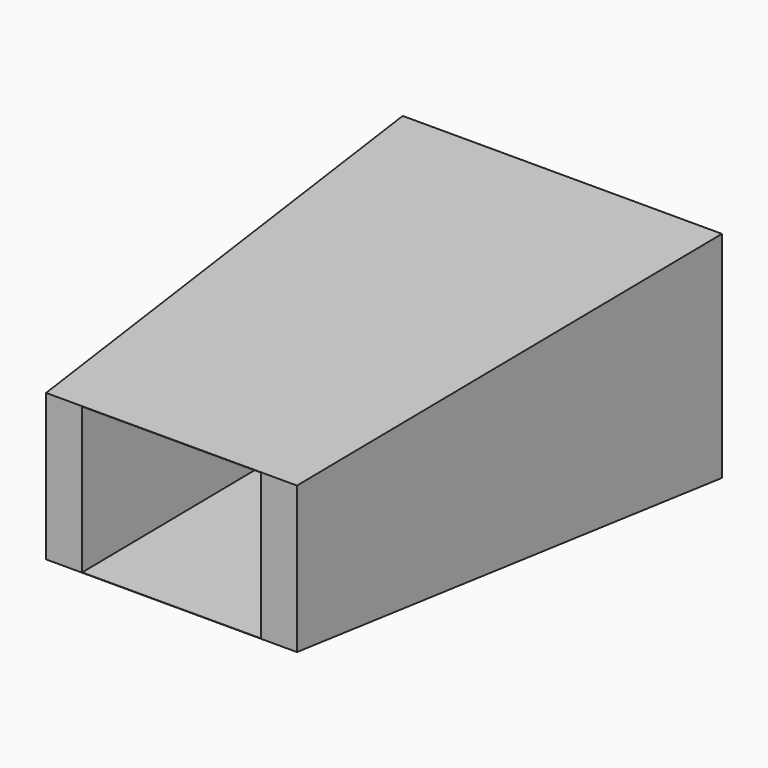
from build123d import *

# Parameters (mm, degrees)
F2_DEPTH = 400
F2_TAPER = 4


with BuildPart() as f2:
    # F0 (on Front) → F2 (new body)
    with BuildSketch(Plane.XZ):
        Polygon((-130.7, 88), (-45.2, 31.8), (45.2, 31.8), (130.7, 88), align=None)
        Polygon((130.7, 88), (45.2, 31.8), (45.2, -31.8), (130.7, -88), align=None)
        Polygon((45.2, -31.8), (-45.2, -31.8), (-130.7, -88), (130.7, -88), align=None)
        Polygon((-45.2, -31.8), (-45.2, 31.8), (-130.7, 88), (-130.7, -88), align=None)
    extrude(amount=F2_DEPTH, taper=F2_TAPER)


solid = f2.part
